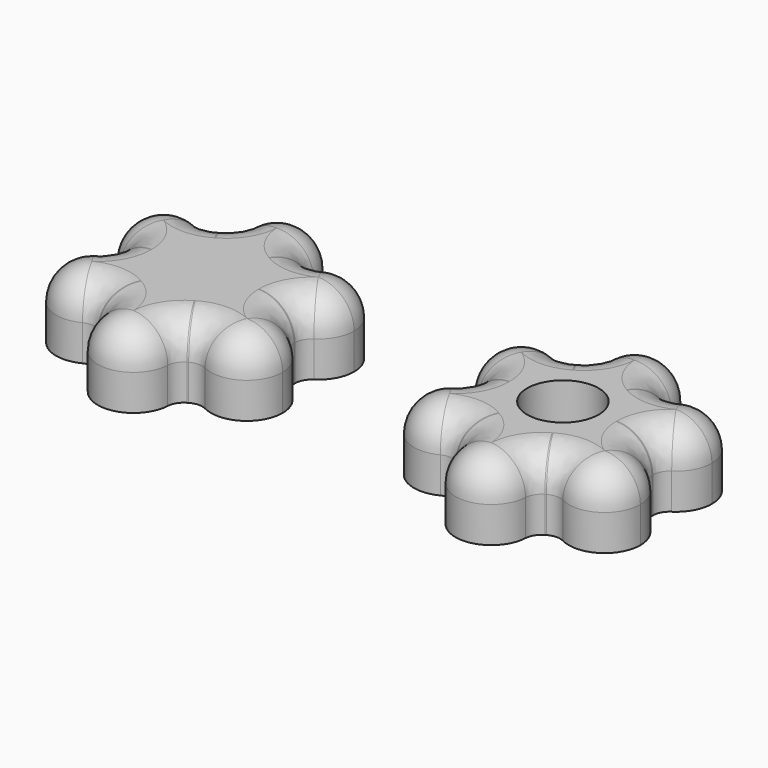
from build123d import *

# Parameters (mm, degrees)
F1_DEPTH  = 6
F2_R      = 1.4
F3_R      = 3
F6_DEPTH  = 4
F8_DEPTH  = 1.5
F9_R      = 3
F10_DEPTH = 4.5010001


with BuildPart() as f1:
    # F0 (on Top) → F1 (new body)
    with BuildSketch(Plane.XY):
        with BuildLine():
            ThreePointArc((7.4452691318, -0.9044155877), (7.486304779, -0.4530350492), (7.5, 0))
            ThreePointArc((7.5, 0), (7.486304779, 0.4530350492), (7.4452691318, 0.9044155877))
            ThreePointArc((7.4452691318, 0.9044155877), (3.897114317, 2.25), (4.5058814404, 5.9955844123))
            ThreePointArc((4.5058814404, 5.9955844123), (3.75, 6.4951905284), (2.9393876913, 6.9))
            ThreePointArc((2.9393876913, 6.9), (0, 4.5), (-2.9393876913, 6.9))
            ThreePointArc((-2.9393876913, 6.9), (-3.75, 6.4951905284), (-4.5058814404, 5.9955844123))
            ThreePointArc((-4.5058814404, 5.9955844123), (-3.7595071344, 4.9812742863), (-3.4951905284, 3.75))
            ThreePointArc((-3.4951905284, 3.75), (-4.7416563557, 1.3158434921), (-7.4452691318, 0.9044155877))
            ThreePointArc((-7.4452691318, 0.9044155877), (-7.5, 0), (-7.4452691318, -0.9044155877))
            ThreePointArc((-7.4452691318, -0.9044155877), (-4.7416563557, -1.3158434921), (-3.4951905284, -3.75))
            ThreePointArc((-3.4951905284, -3.75), (-3.7595071344, -4.9812742863), (-4.5058814404, -5.9955844123))
            ThreePointArc((-4.5058814404, -5.9955844123), (-3.75, -6.4951905284), (-2.9393876913, -6.9))
            ThreePointArc((-2.9393876913, -6.9), (0, -4.5), (2.9393876913, -6.9))
            ThreePointArc((2.9393876913, -6.9), (3.75, -6.4951905284), (4.5058814404, -5.9955844123))
            ThreePointArc((4.5058814404, -5.9955844123), (3.897114317, -2.25), (7.4452691318, -0.9044155877))
        make_face()
        with BuildLine():
            ThreePointArc((-3.4951905284, 3.75), (-3.7595071344, 4.9812742863), (-4.5058814404, 5.9955844123))
            ThreePointArc((-4.5058814404, 5.9955844123), (-6.4951905284, 3.75), (-7.4452691318, 0.9044155877))
            ThreePointArc((-7.4452691318, 0.9044155877), (-4.7416563557, 1.3158434921), (-3.4951905284, 3.75))
        make_face()
        with BuildLine():
            ThreePointArc((-7.4452691318, 0.9044155877), (-6.4951905284, 3.75), (-4.5058814404, 5.9955844123))
            ThreePointArc((-4.5058814404, 5.9955844123), (-9.0932667397, 5.25), (-7.4452691318, 0.9044155877))
        make_face()
        with BuildLine():
            ThreePointArc((-2.9393876913, 6.9), (0, 4.5), (2.9393876913, 6.9))
            ThreePointArc((2.9393876913, 6.9), (0, 7.5), (-2.9393876913, 6.9))
        make_face()
        with BuildLine():
            ThreePointArc((4.5058814404, 5.9955844123), (3.897114317, 2.25), (7.4452691318, 0.9044155877))
            ThreePointArc((7.4452691318, 0.9044155877), (6.4951905284, 3.75), (4.5058814404, 5.9955844123))
        make_face()
        with BuildLine():
            ThreePointArc((4.5058814404, -5.9955844123), (6.4951905284, -3.75), (7.4452691318, -0.9044155877))
            ThreePointArc((7.4452691318, -0.9044155877), (3.897114317, -2.25), (4.5058814404, -5.9955844123))
        make_face()
        with BuildLine():
            ThreePointArc((-2.9393876913, -6.9), (0, -7.5), (2.9393876913, -6.9))
            ThreePointArc((2.9393876913, -6.9), (0, -4.5), (-2.9393876913, -6.9))
        make_face()
        with BuildLine():
            ThreePointArc((-7.4452691318, -0.9044155877), (-6.4951905284, -3.75), (-4.5058814404, -5.9955844123))
            ThreePointArc((-4.5058814404, -5.9955844123), (-3.7595071344, -4.9812742863), (-3.4951905284, -3.75))
            ThreePointArc((-3.4951905284, -3.75), (-4.7416563557, -1.3158434921), (-7.4452691318, -0.9044155877))
        make_face()
        with BuildLine():
            ThreePointArc((-7.4452691318, -0.9044155877), (-9.0932667397, -5.25), (-4.5058814404, -5.9955844123))
            ThreePointArc((-4.5058814404, -5.9955844123), (-6.4951905284, -3.75), (-7.4452691318, -0.9044155877))
        make_face()
        with BuildLine():
            ThreePointArc((3, -7.5), (2.984808459, -7.198473114), (2.9393876913, -6.9))
            ThreePointArc((2.9393876913, -6.9), (0, -7.5), (-2.9393876913, -6.9))
            ThreePointArc((-2.9393876913, -6.9), (-0.301526886, -10.484808459), (3, -7.5))
        make_face()
        with BuildLine():
            ThreePointArc((9.4951905284, -3.75), (8.9293470363, -1.9964658273), (7.4452691318, -0.9044155877))
            ThreePointArc((7.4452691318, -0.9044155877), (6.4951905284, -3.75), (4.5058814404, -5.9955844123))
            ThreePointArc((4.5058814404, -5.9955844123), (7.7264648147, -6.4856833939), (9.4951905284, -3.75))
        make_face()
        with BuildLine():
            ThreePointArc((4.5058814404, 5.9955844123), (6.4951905284, 3.75), (7.4452691318, 0.9044155877))
            ThreePointArc((7.4452691318, 0.9044155877), (8.9293470363, 1.9964658273), (9.4951905284, 3.75))
            ThreePointArc((9.4951905284, 3.75), (7.7264648147, 6.4856833939), (4.5058814404, 5.9955844123))
        make_face()
        with BuildLine():
            ThreePointArc((-2.9393876913, 6.9), (0, 7.5), (2.9393876913, 6.9))
            ThreePointArc((2.9393876913, 6.9), (2.984808459, 7.198473114), (3, 7.5))
            ThreePointArc((3, 7.5), (-0.301526886, 10.484808459), (-2.9393876913, 6.9))
        make_face()
    extrude(amount=F1_DEPTH)

    # F2
    f2_edges = [f1.edges().sort_by_distance(p)[0] for p in [
        (2.939388, -6.9, 3),
        (4.505881, -5.995584, 3),
        (7.445269, 0.904416, 3),
        (7.445269, -0.904416, 3),
        (4.505881, 5.995584, 3),
        (2.939388, 6.9, 3),
        (-2.939388, 6.9, 3),
        (-4.505881, 5.995584, 3),
        (-7.445269, 0.904416, 3),
        (-7.445269, -0.904416, 3),
        (-4.505881, -5.995584, 3),
        (-2.939388, -6.9, 3),
    ]]
    fillet(f2_edges, radius=F2_R)

    # F3
    f3_edges = [f1.edges().sort_by_distance(p)[0] for p in [
        (0, -10.5, 6),
    ]]
    fillet(f3_edges, radius=F3_R)


with BuildPart() as f4_1:
    # F4: copy of F1
    add(f1.part.moved(Location((30, 0, 0))))

    # F7 (on face) → F8 (cut)
    with BuildSketch(Plane(origin=(0, 0, 0), x_dir=(1, 0, 0), z_dir=(0, 0, -1))):
        Polygon((36.0621778265, 0), (33.0310889132, 5.25), (26.9689110868, 5.25), (23.9378221735, 0), (26.9689110868, -5.25), (33.0310889132, -5.25), align=None)
    extrude(amount=-F8_DEPTH, mode=Mode.SUBTRACT)

    # F9 (on face) → F10 (cut, through all)
    with BuildSketch(Plane(origin=(0, 0, 1.5), x_dir=(1, 0, 0), z_dir=(0, 0, -1))):
        with Locations((29.9998221735, 0)):
            Circle(F9_R)
    extrude(amount=-F10_DEPTH, mode=Mode.SUBTRACT)


with BuildPart() as f1_1:
    add(f1.part)

    # F5 (on face) → F6 (cut)
    with BuildSketch(Plane(origin=(0, 0, 0), x_dir=(1, 0, 0), z_dir=(0, 0, -1))):
        Polygon((6.0621778265, 0), (3.0310889132, 5.25), (-3.0310889132, 5.25), (-6.0621778265, 0), (-3.0310889132, -5.25), (3.0310889132, -5.25), align=None)
    extrude(amount=-F6_DEPTH, mode=Mode.SUBTRACT)


solid = Compound([f4_1.part, f1_1.part])
